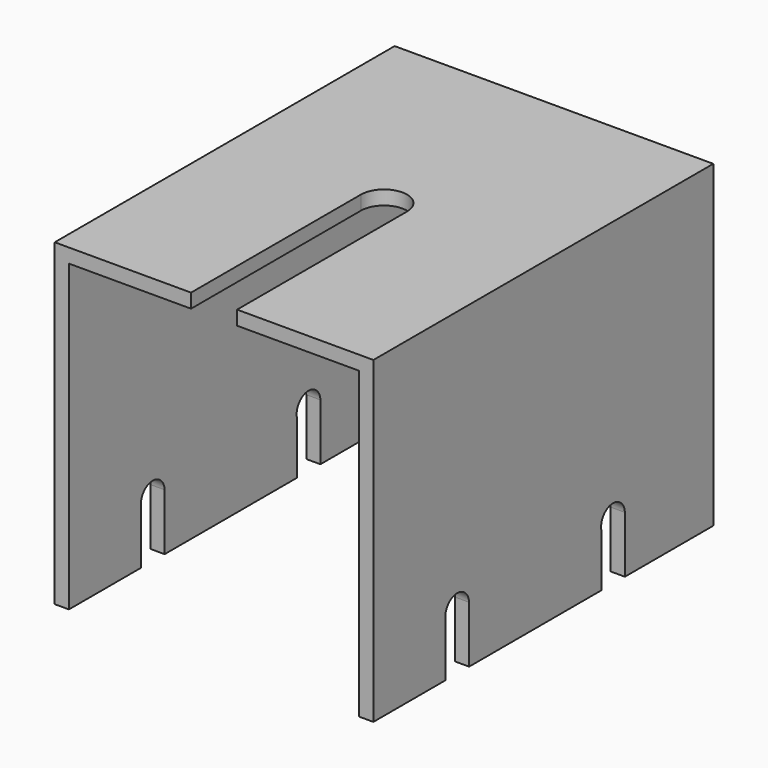
from build123d import *

# Parameters (mm, degrees)
BOX006_W                = 2
BOX006_H                = 4.17
BOX006_DEPTH            = 13
ARRAY003_X_COUNT        = 2
ARRAY003_X_PITCH        = 43
ARRAY003_Y_COUNT        = 2
ARRAY003_Y_PITCH        = 27.5
CYLINDER002_R           = 2.1
CYLINDER002_DEPTH       = 2
CYLINDER002_PITCH_ANGLE = 90
ARRAY002_X_COUNT        = 2
ARRAY002_X_PITCH        = 43
ARRAY002_Y_COUNT        = 2
ARRAY002_Y_PITCH        = 27.5
CYLINDER003_R           = 3.25
CYLINDER003_DEPTH       = 2
BOX007_W                = 6.5
BOX007_H                = 36
BOX007_DEPTH            = 2
BOX003_W                = 45
BOX003_H                = 60
BOX003_DEPTH            = 2
BOX005_W                = 2
BOX005_H                = 60
BOX005_DEPTH            = 45
BOX004_W                = 2
BOX004_H                = 60
BOX004_DEPTH            = 45
CUT003_PLACEMENT_ANGLE  = 180


with BuildPart() as array003:
    # Box006 → Box006 (new body)
    with BuildSketch(Plane(origin=(0, 15.6, 37), x_dir=(1, 0, 0), z_dir=(0, 0, 1))):
        with Locations((1, 2.085)):
            Rectangle(BOX006_W, BOX006_H)
    extrude(amount=BOX006_DEPTH)

    # Array003 X: Array003 ×2


with BuildPart() as array003_1:
    add(array003.part)
    with Locations(*[(i * ARRAY003_X_PITCH, 0, 0) for i in range(1, ARRAY003_X_COUNT)]):
        add(array003.part)

    # Array003 Y: Array003 ×2


with BuildPart() as array003_2:
    add(array003_1.part)
    with Locations(*[(0, i * ARRAY003_Y_PITCH, 0) for i in range(1, ARRAY003_Y_COUNT)]):
        add(array003_1.part)


with BuildPart() as fusion003:
    # Cylinder002 → Cylinder002 (new body)
    with BuildSketch(Plane.XY):
        Circle(CYLINDER002_R)
    extrude(amount=CYLINDER002_DEPTH)


with BuildPart() as fusion003_1:
    # Cylinder002 pitch: moved
    add(fusion003.part.rotate(Axis((0, 0, 0), (0, 1, 0)), CYLINDER002_PITCH_ANGLE))


with BuildPart() as fusion003_2:
    # Cylinder002 placement: moved
    add(fusion003_1.part.moved(Location((0, 17.7, 37.1))))

    # Array002 X: Fusion003 ×2


with BuildPart() as fusion003_3:
    add(fusion003_2.part)
    with Locations(*[(i * ARRAY002_X_PITCH, 0, 0) for i in range(1, ARRAY002_X_COUNT)]):
        add(fusion003_2.part)

    # Array002 Y: Fusion003 ×2


with BuildPart() as fusion003_4:
    add(fusion003_3.part)
    with Locations(*[(0, i * ARRAY002_Y_PITCH, 0) for i in range(1, ARRAY002_Y_COUNT)]):
        add(fusion003_3.part)

    # Fusion003: union Array003
    add(array003_2.part)


with BuildPart() as cilindro003:
    # Cylinder003 → Cylinder003 (new body)
    with BuildSketch(Plane(origin=(22.5, 30, 0), x_dir=(1, 0, 0), z_dir=(0, 0, 1))):
        Circle(CYLINDER003_R)
    extrude(amount=CYLINDER003_DEPTH)


with BuildPart() as fusion004:
    # Box007 → Box007 (new body)
    with BuildSketch(Plane(origin=(19.25, 30, 0), x_dir=(1, 0, 0), z_dir=(0, 0, 1))):
        with Locations((3.25, 18)):
            Rectangle(BOX007_W, BOX007_H)
    extrude(amount=BOX007_DEPTH)

    # Fusion002: union Cilindro003
    add(cilindro003.part)

    # Fusion004: union Fusion003
    add(fusion003_4.part)


with BuildPart() as pared_inferior:
    # Box003 → Box003 (new body)
    with BuildSketch(Plane.XY):
        with Locations((22.5, 30)):
            Rectangle(BOX003_W, BOX003_H)
    extrude(amount=BOX003_DEPTH)


with BuildPart() as pared_izquierda:
    # Box005 → Box005 (new body)
    with BuildSketch(Plane(origin=(43, 0, 0), x_dir=(1, 0, 0), z_dir=(0, 0, 1))):
        with Locations((1, 30)):
            Rectangle(BOX005_W, BOX005_H)
    extrude(amount=BOX005_DEPTH)


with BuildPart() as obj1:
    # Box004 → Box004 (new body)
    with BuildSketch(Plane.XY):
        with Locations((1, 30)):
            Rectangle(BOX004_W, BOX004_H)
    extrude(amount=BOX004_DEPTH)

    # Fusion001: union pared inferior, pared izquierda
    add(pared_inferior.part)
    add(pared_izquierda.part)

    # Cut003: cut Fusion004
    add(fusion004.part, mode=Mode.SUBTRACT)


with BuildPart() as obj1_1:
    # Cut003 placement: moved
    add(obj1.part.moved(Location((0, 12, 35))).rotate(Axis((0, 12, 35), (1, 0, 0)), CUT003_PLACEMENT_ANGLE))


solid = obj1_1.part
